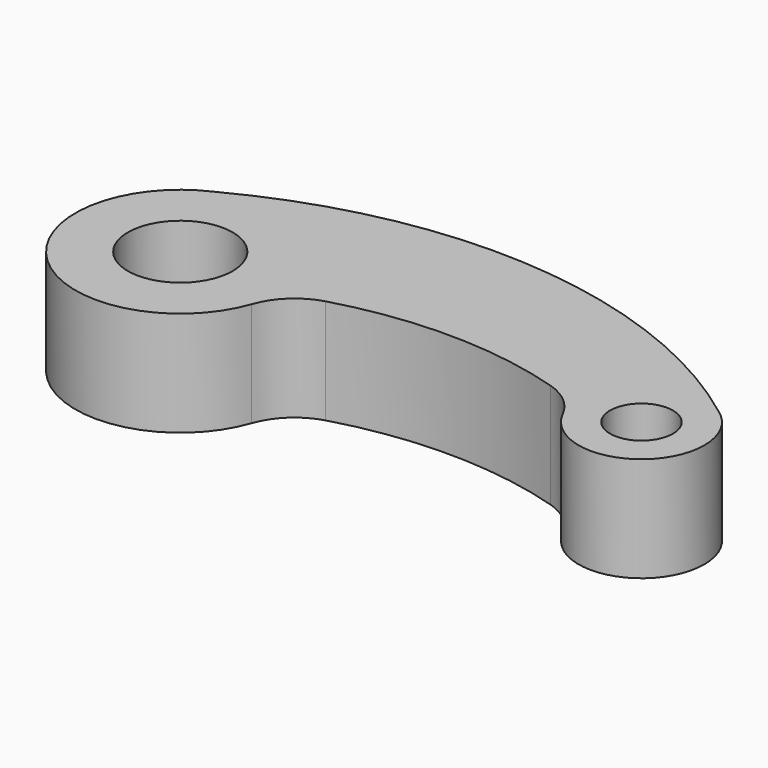
from build123d import *

# Parameters (mm, degrees)
F0_R     = 12.5
F0_R_2   = 7.5
F1_DEPTH = 25


with BuildPart() as f1:
    # F0 (on Top) → F1 (new body)
    with BuildSketch(Plane.XY):
        with BuildLine():
            ThreePointArc((71.756565, 38.28395), (8.994403, 62.308498), (-56.841875, 48.82324))
            ThreePointArc((-56.841875, 48.82324), (-63.727757, 7.573909), (-23.158207, 17.724489))
            ThreePointArc((-23.158207, 17.724489), (-19.31113, 23.680045), (-13.158539, 27.203434))
            ThreePointArc((-13.158539, 27.203434), (13.820011, 30.940502), (40.750151, 26.869217))
            ThreePointArc((40.750151, 26.869217), (46.071333, 23.982414), (49.818041, 19.227334))
            ThreePointArc((49.818041, 19.227334), (73.067746, 14.618042), (71.756565, 38.28395))
        make_face()
        with Locations((-46.768948, 25.942328)):
            Circle(F0_R, mode=Mode.SUBTRACT)
        with Locations((63.231052, 25.942328)):
            Circle(F0_R_2, mode=Mode.SUBTRACT)
    extrude(amount=F1_DEPTH)


solid = f1.part
